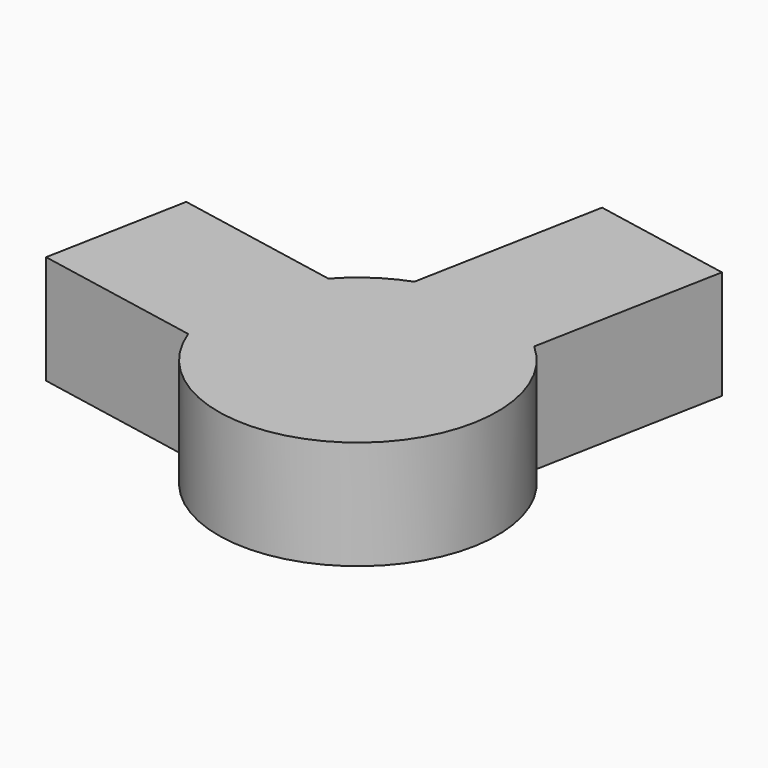
from build123d import *

# Parameters (mm, degrees)
F1_DEPTH = 3


with BuildPart() as f1:
    # F0 (on Top) → F1 (new body)
    with BuildSketch(Plane.XY):
        with BuildLine():
            Line((-1.971551, -5.25639), (2.653176, -6.139863))
            ThreePointArc((2.653176, -6.139863), (8.42906, -7.993938), (8.834607, -1.941338))
            Line((8.834607, -1.941338), (9.832121, 3.280365))
            Line((9.832121, 3.280365), (5.932636, 4.025292))
            Line((5.932636, 4.025292), (4.935122, -1.196411))
            ThreePointArc((4.935122, -1.196411), (4.10269, -1.624282), (3.398103, -2.240378))
            Line((3.398103, -2.240378), (-1.226624, -1.356905))
            Line((-1.226624, -1.356905), (-1.971551, -5.25639))
        make_face()
    extrude(amount=F1_DEPTH)


solid = f1.part
